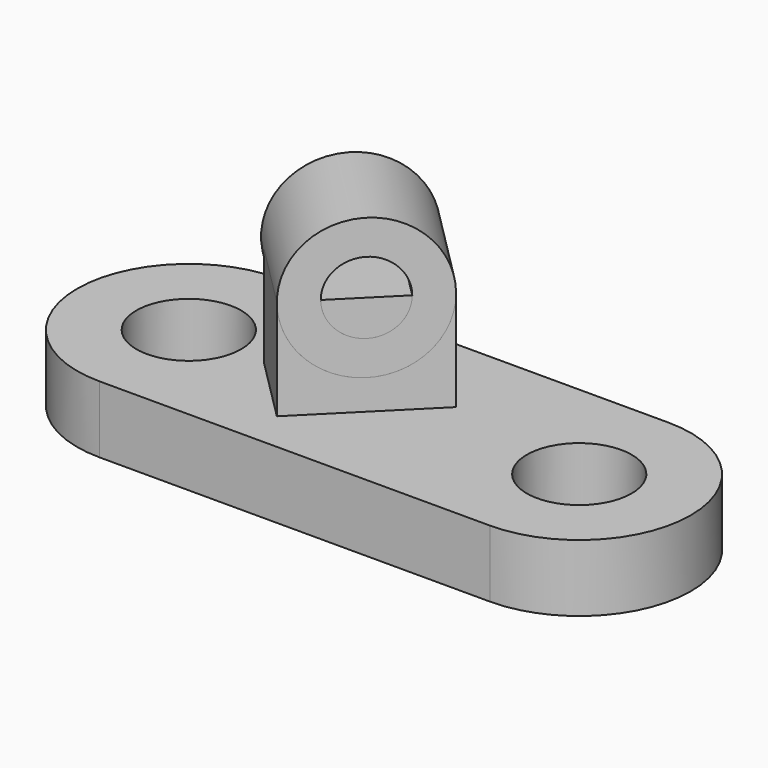
from build123d import *

# Parameters (mm, degrees)
F0_R     = 11.938
F1_DEPTH = 15.24
F2_DEPTH = 38.1
F3_R     = 16.032895
F3_R_2   = 8.191235
F4_DEPTH = 25.4


with BuildPart() as f1:
    # F0 (on Top) → F1 (new body)
    with BuildSketch(Plane.XY):
        with BuildLine():
            Line((-44.45, -25.4), (44.45, -25.4))
            ThreePointArc((44.45, -25.4), (69.85, 0), (44.45, 25.4))
            Line((44.45, 25.4), (-44.45, 25.4))
            ThreePointArc((-44.45, 25.4), (-69.85, 0), (-44.45, -25.4))
        make_face()
        with Locations((-44.45, 0)):
            Circle(F0_R, mode=Mode.SUBTRACT)
        with Locations((44.45, 0)):
            Circle(F0_R, mode=Mode.SUBTRACT)
        Polygon((-11.43, -16.207645), (-25.79841, -1.839236), (-3.124472, 20.834702), (11.243938, 6.466293), align=None, mode=Mode.SUBTRACT)
    extrude(amount=F1_DEPTH)

    # F0 (on Top) → F2 (join)
    with BuildSketch(Plane.XY):
        Polygon((-3.124472, 20.834702), (-25.79841, -1.839236), (-11.43, -16.207645), (11.243938, 6.466293), align=None)
    extrude(amount=F2_DEPTH)

    # F3 (on face) → F4 (join)
    with BuildSketch(Plane(origin=(2.388823, -2.388823, 0), x_dir=(0.707107, 0.707107, 0), z_dir=(0.707107, -0.707107, 0))):
        with Locations((-3.509871, 38.1)):
            Circle(F3_R)
        with Locations((-3.509871, 38.1)):
            Circle(F3_R_2, mode=Mode.SUBTRACT)
    extrude(amount=-F4_DEPTH)


solid = f1.part
